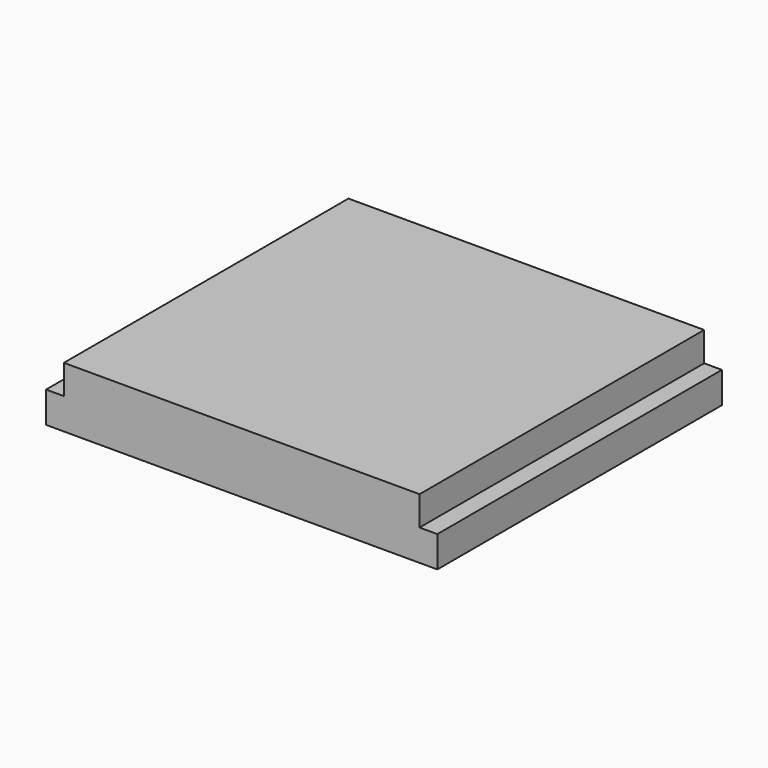
from build123d import *

# Parameters (mm, degrees)
BOX003_W     = 44
BOX003_H     = 40
BOX003_DEPTH = 3.5
BOX002_W     = 40
BOX002_H     = 40
BOX002_DEPTH = 3.3


with BuildPart() as radiator:
    # Box003 → Box003 (new body)
    with BuildSketch(Plane(origin=(-2, 0, -3.5), x_dir=(1, 0, 0), z_dir=(0, 0, 1))):
        with Locations((22, 20)):
            Rectangle(BOX003_W, BOX003_H)
    extrude(amount=BOX003_DEPTH)


with BuildPart() as obj1:
    # Box002 → Box002 (new body)
    with BuildSketch(Plane.XY):
        with Locations((20, 20)):
            Rectangle(BOX002_W, BOX002_H)
    extrude(amount=BOX002_DEPTH)

    # Fusion003: union radiator
    add(radiator.part)


with BuildPart() as obj1_1:
    # Fusion003 placement: moved
    add(obj1.part.moved(Location((3, 10, -18.5))))


solid = obj1_1.part
